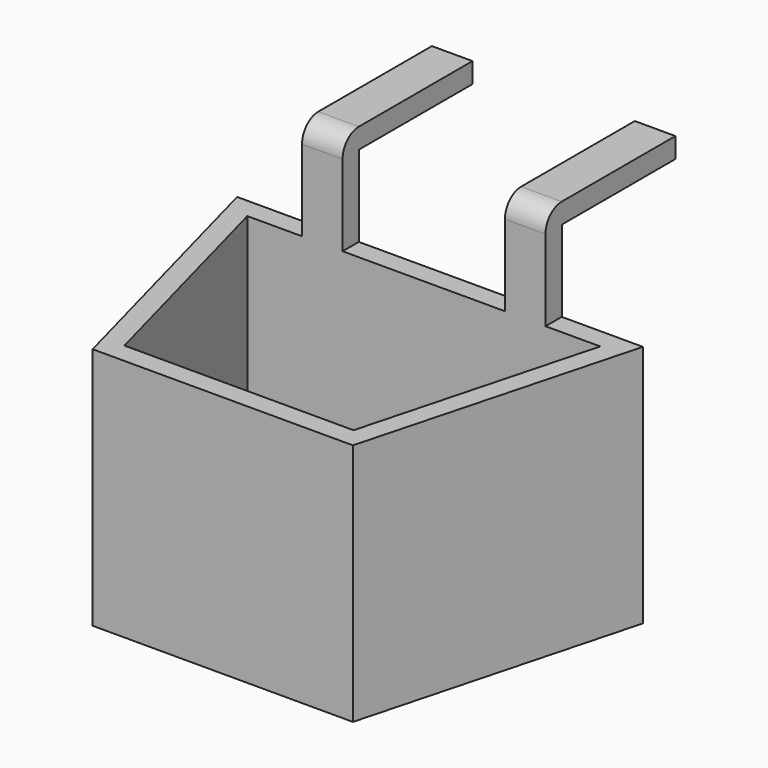
from build123d import *

# Parameters (mm, degrees)
F1_DEPTH = 76.2
F2_DEPTH = 6.35
F3_W     = 12.7
F3_H     = 25.4
F4_DEPTH = 6.35
F5_W     = 12.7
F5_H     = 6.35
F5_H_2   = 44.45
F6_DEPTH = 6.35
F7_W     = 12.7
F7_H     = 44.45
F7_H_2   = 6.35
F8_DEPTH = 6.35
F9_R     = 6.35
F10_R    = 6.35


with BuildPart() as f1:
    # F0 (on Top) → F1 (new body)
    with BuildSketch(Plane.XY):
        Polygon((-191.3085826457, -6.122033637), (-168.5362336709, 78.8655297446), (-295.5362336709, 78.8655297446), (-272.7638846962, -6.122033637), align=None)
        Polygon((-267.8913583225, 0.227966363), (-287.2607525534, 72.5155297446), (-176.8117147885, 72.5155297446), (-196.1811090194, 0.227966363), align=None, mode=Mode.SUBTRACT)
    extrude(amount=F1_DEPTH)

    # F0 (on Top) → F2 (join)
    with BuildSketch(Plane.XY):
        Polygon((-176.8117147885, 72.5155297446), (-287.2607525534, 72.5155297446), (-267.8913583225, 0.227966363), (-196.1811090194, 0.227966363), align=None)
    extrude(amount=F2_DEPTH)

    # F3 (on face) → F4 (join)
    with BuildSketch(Plane(origin=(0, 78.8655297446, 0), x_dir=(-1, 0, 0), z_dir=(0, 1, 0))):
        with Locations((200.2862336709, 88.9)):
            Rectangle(F3_W, F3_H)
        with Locations((263.7862336709, 88.9)):
            Rectangle(F3_W, F3_H)
    extrude(amount=-F4_DEPTH)

    # F5 (on face) → F6 (join)
    with BuildSketch(Plane.XY.offset(101.6)):
        with Locations((-200.2862336709, 75.6905297446)):
            Rectangle(F5_W, F5_H)
        with Locations((-200.2862336709, 101.0905297446)):
            Rectangle(F5_W, F5_H_2)
    extrude(amount=F6_DEPTH)

    # F7 (on face) → F8 (join)
    with BuildSketch(Plane.XY.offset(101.6)):
        with Locations((-263.7862336709, 101.0905297446)):
            Rectangle(F7_W, F7_H)
        with Locations((-263.7862336709, 75.6905297446)):
            Rectangle(F7_W, F7_H_2)
    extrude(amount=F8_DEPTH)

    # F9
    f9_edges = [f1.edges().sort_by_distance(p)[0] for p in [
        (-200.286234, 72.51553, 107.95),
    ]]
    fillet(f9_edges, radius=F9_R)

    # F10
    f10_edges = [f1.edges().sort_by_distance(p)[0] for p in [
        (-263.786234, 72.51553, 107.95),
    ]]
    fillet(f10_edges, radius=F10_R)


solid = f1.part
